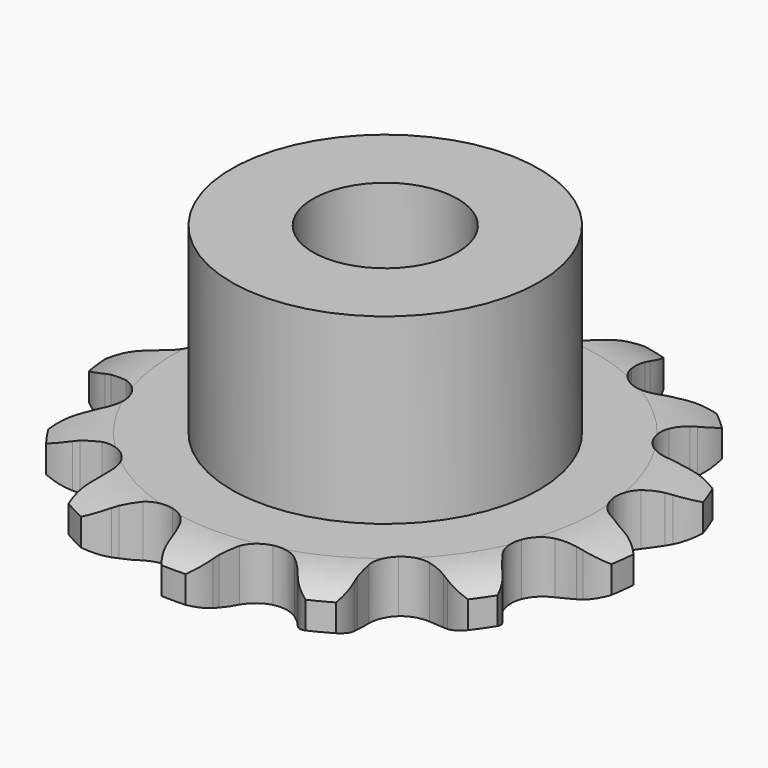
from build123d import *

# Parameters (mm, degrees)
PAD_DEPTH         = 2.9
SKETCH001_R       = 8.5
PAD001_DEPTH      = 13
SKETCH002_R       = 4
POCKET_DEPTH      = 0.001
POCKET_DEPTH_BACK = -13.001


with BuildPart() as part:
    # Sprocket → Pad (new body)
    with BuildSketch(Plane.XY):
        with BuildLine():
            ThreePointArc((-3.641661, 14.774798), (-2.684397, 14.234442), (-2.015714, 13.361973))
            Line((-2.015714, 13.361973), (-1.866331, 13.054645))
            ThreePointArc((-1.866331, 13.054645), (-1.612549, 12.603263), (-1.30677, 12.185351))
            ThreePointArc((-1.30677, 12.185351), (-0.722065, 11.731996), (0, 11.570646))
            ThreePointArc((0, 11.570646), (0.722065, 11.731996), (1.30677, 12.185351))
            ThreePointArc((1.30677, 12.185351), (1.612549, 12.603263), (1.866331, 13.054645))
            Line((1.866331, 13.054645), (2.015714, 13.361973))
            ThreePointArc((2.015714, 13.361973), (2.684397, 14.234442), (3.641661, 14.774798))
            ThreePointArc((3.641661, 14.774798), (4.23816, 13.851474), (4.424792, 12.768189))
            Line((4.424792, 12.768189), (4.414242, 12.426642))
            ThreePointArc((4.414242, 12.426642), (4.429187, 11.909024), (4.505728, 11.396879))
            ThreePointArc((4.505728, 11.396879), (4.812774, 10.723727), (5.377147, 10.245298))
            ThreePointArc((5.377147, 10.245298), (6.091487, 10.052606), (6.819902, 10.182306))
            Line((6.819902, 10.182306), (7.71935, 10.691987))
            ThreePointArc((7.71935, 10.691987), (7.8549, 10.796049), (7.994445, 10.89469))
            ThreePointArc((7.994445, 10.89469), (8.99199, 11.356471), (10.090721, 11.39007))
            ThreePointArc((10.090721, 11.39007), (10.189805, 10.2953), (9.851632, 9.249366))
            Line((9.851632, 9.249366), (9.683565, 8.951844))
            ThreePointArc((9.683565, 8.951844), (9.45625, 8.486571), (9.286017, 7.997519))
            ThreePointArc((9.286017, 7.997519), (9.245064, 7.258781), (9.522455, 6.572876))
            ThreePointArc((9.522455, 6.572876), (10.065423, 6.070286), (10.770677, 5.846618))
            Line((10.770677, 5.846618), (11.803959, 5.879923))
            ThreePointArc((11.803959, 5.879923), (11.972343, 5.909073), (12.141744, 5.931565))
            ThreePointArc((12.141744, 5.931565), (13.239627, 5.87687), (14.228119, 5.396014))
            ThreePointArc((14.228119, 5.396014), (13.807089, 4.380597), (13.021582, 3.611625))
            Line((13.021582, 3.611625), (12.734501, 3.426287))
            ThreePointArc((12.734501, 3.426287), (12.317, 3.119947), (11.938992, 2.766024))
            ThreePointArc((11.938992, 2.766024), (11.559421, 2.130936), (11.486283, 1.394687))
            ThreePointArc((11.486283, 1.394687), (11.733492, 0.697336), (12.25402, 0.17154))
            Line((12.25402, 0.17154), (13.184424, -0.27916))
            ThreePointArc((13.184424, -0.27916), (13.347066, -0.331601), (13.507517, -0.39041))
            ThreePointArc((13.507517, -0.39041), (14.454225, -0.949052), (15.106027, -1.834204))
            ThreePointArc((15.106027, -1.834204), (14.261335, -2.537648), (13.208444, -2.853495))
            Line((13.208444, -2.853495), (12.868115, -2.884191))
            ThreePointArc((12.868115, -2.884191), (12.356073, -2.961419), (11.856888, -3.099134))
            ThreePointArc((11.856888, -3.099134), (11.225654, -3.485081), (10.818742, -4.103008))
            ThreePointArc((10.818742, -4.103008), (10.713559, -4.835365), (10.930114, -5.542836))
            Line((10.930114, -5.542836), (11.544495, -6.374291))
            ThreePointArc((11.544495, -6.374291), (11.664138, -6.496309), (11.778879, -6.622947))
            ThreePointArc((11.778879, -6.622947), (12.357535, -7.557557), (12.523325, -8.644227))
            ThreePointArc((12.523325, -8.644227), (11.448481, -8.874549), (10.369411, -8.664914))
            Line((10.369411, -8.664914), (10.0538, -8.533936))
            ThreePointArc((10.0538, -8.533936), (9.564519, -8.36436), (9.058514, -8.254318))
            ThreePointArc((9.058514, -8.254318), (8.320225, -8.302708), (7.672758, -8.660753))
            ThreePointArc((7.672758, -8.660753), (7.239279, -9.260342), (7.102251, -9.987415))
            Line((7.102251, -9.987415), (7.259862, -11.009149))
            ThreePointArc((7.259862, -11.009149), (7.309096, -11.172791), (7.351843, -11.338246))
            ThreePointArc((7.351843, -11.338246), (7.429882, -12.434717), (7.071681, -13.473963))
            ThreePointArc((7.071681, -13.473963), (6.012918, -13.178397), (5.154871, -12.491306))
            Line((5.154871, -12.491306), (4.93628, -12.228659))
            ThreePointArc((4.93628, -12.228659), (4.581849, -11.851127), (4.184943, -11.518536))
            ThreePointArc((4.184943, -11.518536), (3.508733, -11.218284), (2.769037, -11.234424))
            ThreePointArc((2.769037, -11.234424), (2.106568, -11.563887), (1.647348, -12.143997))
            Line((1.647348, -12.143997), (1.312082, -13.121943))
            ThreePointArc((1.312082, -13.121943), (1.279628, -13.289721), (1.240588, -13.45609))
            ThreePointArc((1.240588, -13.45609), (0.800132, -14.463233), (0, -15.216976))
            ThreePointArc((0, -15.216976), (-0.800132, -14.463233), (-1.240588, -13.45609))
            Line((-1.240588, -13.45609), (-1.312082, -13.121943))
            ThreePointArc((-1.312082, -13.121943), (-1.450467, -12.622943), (-1.647348, -12.143997))
            ThreePointArc((-1.647348, -12.143997), (-2.106568, -11.563887), (-2.769037, -11.234424))
            ThreePointArc((-2.769037, -11.234424), (-3.508733, -11.218284), (-4.184943, -11.518536))
            Line((-4.184943, -11.518536), (-4.93628, -12.228659))
            ThreePointArc((-4.93628, -12.228659), (-5.042987, -12.362136), (-5.154871, -12.491306))
            ThreePointArc((-5.154871, -12.491306), (-6.012918, -13.178397), (-7.071681, -13.473963))
            ThreePointArc((-7.071681, -13.473963), (-7.429882, -12.434717), (-7.351843, -11.338246))
            Line((-7.351843, -11.338246), (-7.259862, -11.009149))
            ThreePointArc((-7.259862, -11.009149), (-7.150499, -10.502996), (-7.102251, -9.987415))
            ThreePointArc((-7.102251, -9.987415), (-7.239279, -9.260342), (-7.672758, -8.660753))
            ThreePointArc((-7.672758, -8.660753), (-8.320225, -8.302708), (-9.058514, -8.254318))
            Line((-9.058514, -8.254318), (-10.0538, -8.533936))
            ThreePointArc((-10.0538, -8.533936), (-10.210315, -8.602535), (-10.369411, -8.664914))
            ThreePointArc((-10.369411, -8.664914), (-11.448481, -8.874549), (-12.523325, -8.644227))
            ThreePointArc((-12.523325, -8.644227), (-12.357535, -7.557557), (-11.778879, -6.622947))
            Line((-11.778879, -6.622947), (-11.544495, -6.374291))
            ThreePointArc((-11.544495, -6.374291), (-11.212438, -5.976938), (-10.930114, -5.542836))
            ThreePointArc((-10.930114, -5.542836), (-10.713559, -4.835365), (-10.818742, -4.103008))
            ThreePointArc((-10.818742, -4.103008), (-11.225654, -3.485081), (-11.856888, -3.099134))
            Line((-11.856888, -3.099134), (-12.868115, -2.884191))
            ThreePointArc((-12.868115, -2.884191), (-13.038582, -2.872197), (-13.208444, -2.853495))
            ThreePointArc((-13.208444, -2.853495), (-14.261335, -2.537648), (-15.106027, -1.834204))
            ThreePointArc((-15.106027, -1.834204), (-14.454225, -0.949052), (-13.507517, -0.39041))
            Line((-13.507517, -0.39041), (-13.184424, -0.27916))
            ThreePointArc((-13.184424, -0.27916), (-12.705742, -0.081636), (-12.25402, 0.17154))
            ThreePointArc((-12.25402, 0.17154), (-11.733492, 0.697336), (-11.486283, 1.394687))
            ThreePointArc((-11.486283, 1.394687), (-11.559421, 2.130936), (-11.938992, 2.766024))
            Line((-11.938992, 2.766024), (-12.734501, 3.426287))
            ThreePointArc((-12.734501, 3.426287), (-12.879867, 3.516127), (-13.021582, 3.611625))
            ThreePointArc((-13.021582, 3.611625), (-13.807089, 4.380597), (-14.228119, 5.396014))
            ThreePointArc((-14.228119, 5.396014), (-13.239627, 5.87687), (-12.141744, 5.931565))
            Line((-12.141744, 5.931565), (-11.803959, 5.879923))
            ThreePointArc((-11.803959, 5.879923), (-11.288314, 5.832368), (-10.770677, 5.846618))
            ThreePointArc((-10.770677, 5.846618), (-10.065423, 6.070286), (-9.522455, 6.572876))
            ThreePointArc((-9.522455, 6.572876), (-9.245064, 7.258781), (-9.286017, 7.997519))
            Line((-9.286017, 7.997519), (-9.683565, 8.951844))
            ThreePointArc((-9.683565, 8.951844), (-9.77053, 9.098949), (-9.851632, 9.249366))
            ThreePointArc((-9.851632, 9.249366), (-10.189805, 10.2953), (-10.090721, 11.39007))
            ThreePointArc((-10.090721, 11.39007), (-8.99199, 11.356471), (-7.994445, 10.89469))
            Line((-7.994445, 10.89469), (-7.71935, 10.691987))
            ThreePointArc((-7.71935, 10.691987), (-7.28487, 10.410246), (-6.819902, 10.182306))
            ThreePointArc((-6.819902, 10.182306), (-6.091487, 10.052606), (-5.377147, 10.245298))
            ThreePointArc((-5.377147, 10.245298), (-4.812774, 10.723727), (-4.505728, 11.396879))
            Line((-4.505728, 11.396879), (-4.414242, 12.426642))
            ThreePointArc((-4.414242, 12.426642), (-4.422883, 12.597311), (-4.424792, 12.768189))
            ThreePointArc((-4.424792, 12.768189), (-4.23816, 13.851474), (-3.641661, 14.774798))
        make_face()
    extrude(amount=PAD_DEPTH)

    # Sketch → Groove (revolve, cut)
    with BuildSketch(Plane.XZ):
        with BuildLine():
            Line((11.739674, 0), (14.65, 0))
            Line((17.560326, 0), (14.65, 0))
            Line((17.560326, 2.9), (17.560326, 0))
            Line((14.65, 2.9), (17.560326, 2.9))
            Line((11.739674, 2.9), (14.65, 2.9))
            ThreePointArc((14.65, 2.2), (13.236337, 2.72254), (11.739674, 2.9))
            Line((14.65, 0.7), (14.65, 2.2))
            ThreePointArc((11.739674, 0), (13.236337, 0.17746), (14.65, 0.7))
        make_face()
    revolve(axis=Axis((0, 0, 0), (0, 0, 1)), mode=Mode.SUBTRACT)

    # Sketch001 → Pad001 (join)
    with BuildSketch(Plane.XY):
        Circle(SKETCH001_R)
    extrude(amount=PAD001_DEPTH)

    # Sketch002 → Pocket (cut, two sides)
    with BuildSketch(Plane.XY) as pocket_sk:
        Circle(SKETCH002_R)
    extrude(amount=-POCKET_DEPTH, mode=Mode.SUBTRACT)
    extrude(pocket_sk.sketch, amount=-POCKET_DEPTH_BACK, mode=Mode.SUBTRACT)


solid = part.part
